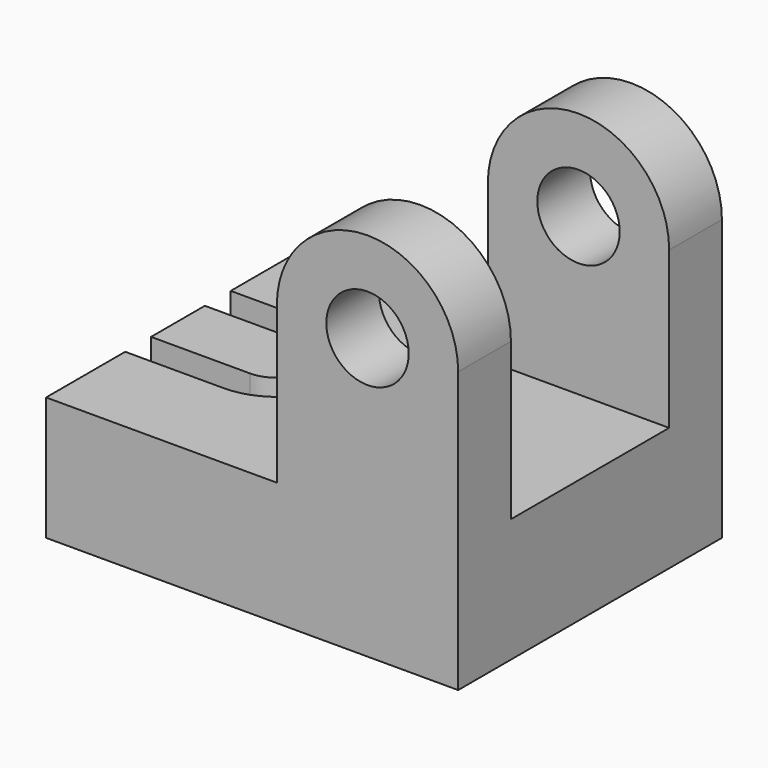
from build123d import *

# Parameters (mm, degrees)
F0_R     = 10
F1_DEPTH = 40
F2_DEPTH = 24
F4_DEPTH = 10


with BuildPart() as f1:
    # F0 (on Front) → F1 (new body, symmetric)
    with BuildSketch(Plane.XZ):
        Polygon((-100, 0), (0, 0), (0, 30), (-44, 30), (-100, 30), align=None)
        with BuildLine():
            Line((-44, 30), (0, 30))
            Line((0, 30), (0, 68))
            ThreePointArc((0, 68), (-22, 90), (-44, 68))
            Line((-44, 68), (-44, 30))
        make_face()
        with Locations((-22, 68)):
            Circle(F0_R, mode=Mode.SUBTRACT)
    extrude(amount=F1_DEPTH, both=True)

    # F0 (on Front) → F2 (cut, symmetric)
    with BuildSketch(Plane.XZ):
        with BuildLine():
            Line((-44, 30), (0, 30))
            Line((0, 30), (0, 68))
            ThreePointArc((0, 68), (-22, 90), (-44, 68))
            Line((-44, 68), (-44, 30))
        make_face()
        with Locations((-22, 68)):
            Circle(F0_R, mode=Mode.SUBTRACT)
    extrude(amount=F2_DEPTH, both=True, mode=Mode.SUBTRACT)

    # F3 (on face) → F4 (cut)
    with BuildSketch(Plane.XY.offset(30)):
        with BuildLine():
            Line((-100, -16), (-76, -16))
            ThreePointArc((-76, -16), (-60, 0), (-76, 16))
            Line((-76, 16), (-100, 16))
            Line((-100, 16), (-100, 8.16))
            Line((-100, 8.16), (-76, 8.16))
            ThreePointArc((-76, 8.16), (-67.84, 0), (-76, -8.16))
            Line((-76, -8.16), (-100, -8.16))
            Line((-100, -8.16), (-100, -16))
        make_face()
    extrude(amount=-F4_DEPTH, mode=Mode.SUBTRACT)


solid = f1.part
